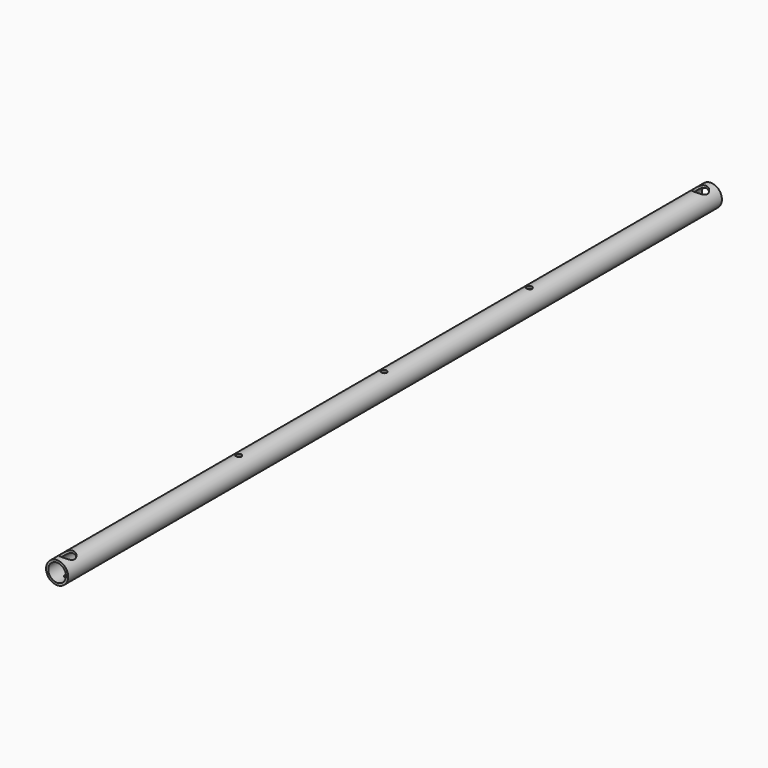
from build123d import *

# Parameters (mm, degrees)
SKETCH_R         = 6.095
SKETCH_R_2       = 4.8895
PAD_DEPTH        = 225
HOLE_D           = 3.05
HOLE_DEPTH       = 25
HOLE_CBORE_D     = 7.62
HOLE_CBORE_DEPTH = 5
SKETCH002_R      = 1.525
HOLE001_DEPTH    = 25


with BuildPart() as part:
    # Sketch → Pad (new body, symmetric)
    with BuildSketch(Plane.XZ):
        Circle(SKETCH_R)
        Circle(SKETCH_R_2, mode=Mode.SUBTRACT)
    extrude(amount=PAD_DEPTH, both=True)

    # Hole
    with Locations(Plane.XY.offset(7)):
        with Locations((0, -217.79), (0, 217.79)):
            CounterBoreHole(HOLE_D / 2, HOLE_CBORE_D / 2, HOLE_CBORE_DEPTH, depth=HOLE_DEPTH)

    # Sketch002 → Hole001 (cut)
    with BuildSketch(Plane.XY.offset(7)):
        Circle(SKETCH002_R)
        with Locations((0, -100)):
            Circle(SKETCH002_R)
        with Locations((0, 100)):
            Circle(SKETCH002_R)
    extrude(amount=-HOLE001_DEPTH, mode=Mode.SUBTRACT)


solid = part.part
